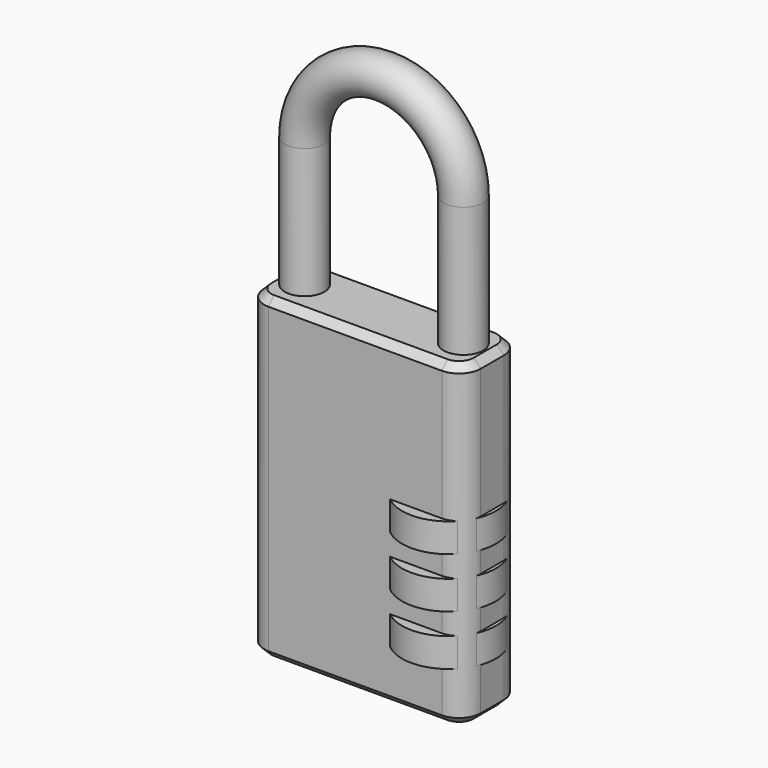
from build123d import *

# Parameters (mm, degrees)
F0_W     = 30
F0_H     = 10
F1_DEPTH = 44
F2_R     = 3
F3_R     = 3
F5_START = 44
F4_R     = 2.75
F5_DEPTH = 18
F7_R     = 2.75
F8_ANGLE = 180
F10_W    = 6.5
F10_H    = 4
F12_SIZE = 1
F13_SIZE = 1


with BuildPart() as f1:
    # F0 (on Top) → F1 (new body)
    with BuildSketch(Plane.XY):
        Rectangle(F0_W, F0_H)
    extrude(amount=F1_DEPTH)

    # F2
    f2_edges = [f1.edges().sort_by_distance(p)[0] for p in [
        (15, -5, 22),
        (-15, -5, 22),
    ]]
    fillet(f2_edges, radius=F2_R)

    # F3
    f3_edges = [f1.edges().sort_by_distance(p)[0] for p in [
        (15, 5, 22),
        (-15, 5, 22),
    ]]
    fillet(f3_edges, radius=F3_R)

    # F4 (on Top) → F5 (join)
    with BuildSketch(Plane.XY.offset(F5_START)):
        with Locations((-11, 0)):
            Circle(F4_R)
        with Locations((11, 0)):
            Circle(F4_R)
    extrude(amount=F5_DEPTH)

    # F7 (on offset) → F8 (revolve)
    with BuildSketch(Plane.XY.offset(62)):
        with Locations((11, 0)):
            Circle(F7_R)
    revolve(axis=Axis((0, -1.5820115805, 62), (0, -1, 0)), revolution_arc=F8_ANGLE)

    # F10 (on offset) → F11 (revolve)
    with BuildSketch(Plane.YZ.offset(9)):
        with Locations((-3.25, 23)):
            Rectangle(F10_W, F10_H)
        with Locations((-3.25, 16)):
            Rectangle(F10_W, F10_H)
        with Locations((-3.25, 9)):
            Rectangle(F10_W, F10_H)
    revolve(axis=Axis((9, 0, 12.7572556958), (0, 0, -1)))

    # F12
    f12_edges = [f1.edges().sort_by_distance(p)[0] for p in [
        (15, 0, 44),
        (14.12132, 4.12132, 44),
        (14.12132, -4.12132, 44),
        (-14.12132, 4.12132, 44),
        (-15, 0, 44),
        (-14.12132, -4.12132, 44),
    ]]
    chamfer(f12_edges, length=F12_SIZE)

    # F13
    f13_edges = [f1.edges().sort_by_distance(p)[0] for p in [
        (15, 0, 0),
        (14.12132, 4.12132, 0),
        (14.12132, -4.12132, 0),
        (0, 5, 0),
        (0, -5, 0),
        (-14.12132, 4.12132, 0),
        (-14.12132, -4.12132, 0),
        (-15, 0, 0),
    ]]
    chamfer(f13_edges, length=F13_SIZE)


solid = f1.part
